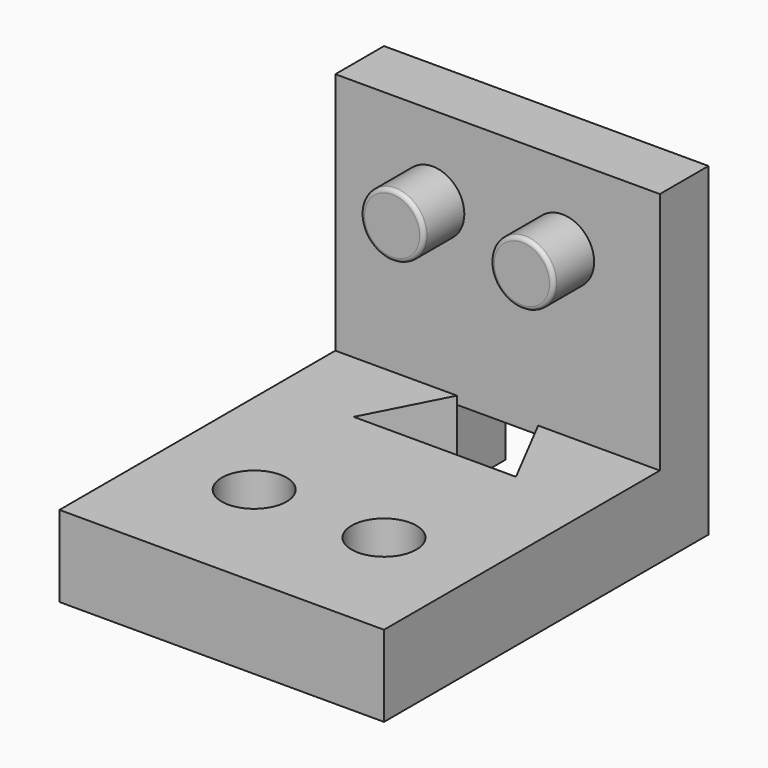
from build123d import *

# Parameters (mm, degrees)
F0_W      = 101.6
F0_H      = 127
F1_DEPTH  = 25.4
F2_R      = 10.16
F3_DEPTH  = 19.05
F4_W      = 19.05
F4_H      = 76.2
F5_DEPTH  = 101.6
F6_R      = 9.906
F7_DEPTH  = 15.875
F8_R      = 1.27
F10_DEPTH = 25.401
F11_W     = 25.4
F11_H     = 22.863189
F12_DEPTH = 25.4
F14_DEPTH = 101.6


with BuildPart() as f1:
    # F0 (on Top) → F1 (new body)
    with BuildSketch(Plane.XY):
        with Locations((50.8, 63.5)):
            Rectangle(F0_W, F0_H)
    extrude(amount=F1_DEPTH)

    # F2 (on face) → F3 (cut)
    with BuildSketch(Plane.XY.offset(25.4)):
        with Locations((30.48, 38.1)):
            Circle(F2_R)
        with Locations((71.12, 38.1)):
            Circle(F2_R)
    extrude(amount=-F3_DEPTH, mode=Mode.SUBTRACT)

    # F4 (on face) → F5 (join)
    with BuildSketch(Plane.YZ.offset(101.6)):
        with Locations((117.475, 63.5)):
            Rectangle(F4_W, F4_H)
    extrude(amount=-F5_DEPTH)

    # F6 (on face) → F7 (join)
    with BuildSketch(Plane.XZ.offset(-107.95)):
        with Locations((30.48, 76.2)):
            Circle(F6_R)
        with Locations((71.12, 76.2)):
            Circle(F6_R)
    extrude(amount=F7_DEPTH)

    # F8
    f8_edges = [f1.edges().sort_by_distance(p)[0] for p in [
        (61.214, 92.075, 76.2),
        (20.574, 92.075, 76.2),
    ]]
    fillet(f8_edges, radius=F8_R)

    # F9 (on face) → F10 (cut, through all)
    with BuildSketch(Plane.XY.offset(25.4)):
        Polygon((63.5, 107.95), (38.1, 107.95), (25.4, 83.384298), (76.2, 83.384298), align=None)
    extrude(amount=-F10_DEPTH, mode=Mode.SUBTRACT)

    # F11 (on face) → F12 (cut)
    with BuildSketch(Plane(origin=(0, 127, 0), x_dir=(-1, 0, 0), z_dir=(0, 1, 0))):
        with Locations((-50.8, 11.431594)):
            Rectangle(F11_W, F11_H)
    extrude(amount=-F12_DEPTH, mode=Mode.SUBTRACT)

    # F13 (on face) → F14 (join)
    with BuildSketch(Plane.YZ.offset(101.6)):
        Polygon((82.55, 0), (107.95, 0), (82.55, 25.4), align=None)
    extrude(amount=-F14_DEPTH)


solid = f1.part
